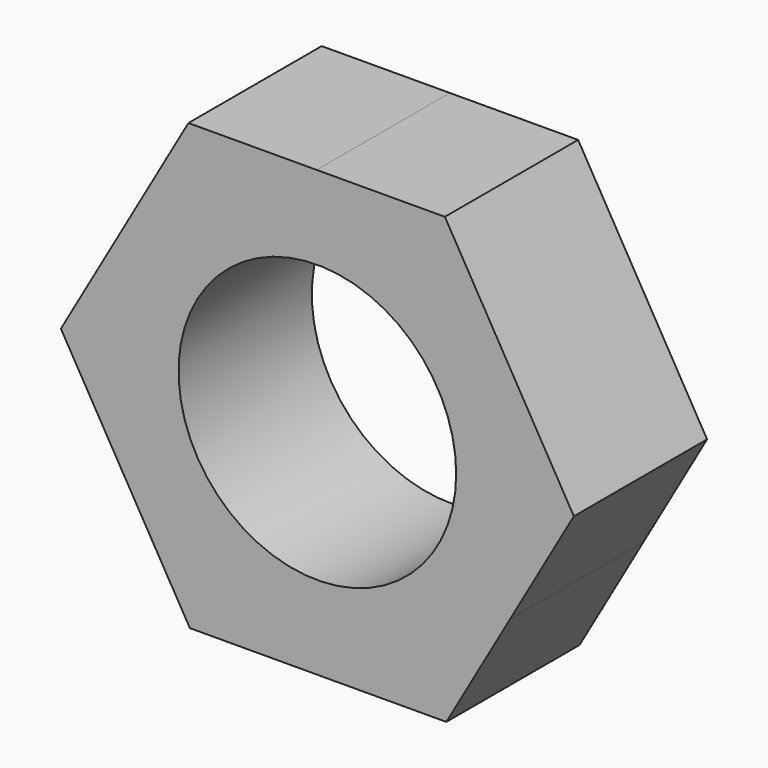
from build123d import *

# Parameters (mm, degrees)
F0_R     = 3.96875
F1_DEPTH = 4.7625


with BuildPart() as f1:
    # F0 (on Front) → F1 (new body)
    with BuildSketch(Plane.XZ):
        with BuildLine():
            ThreePointArc((5.5096007047, -3.1570239268), (6.1363044447, -1.6334833218), (6.35, 0))
            ThreePointArc((6.35, 0), (6.1309371935, 1.6535141757), (5.4888632664, 3.1929422235))
            ThreePointArc((5.4888632664, 3.1929422235), (3.1570238869, 5.5096007276), (-0.0207375096, 6.3499661382))
            ThreePointArc((-0.0207375096, 6.3499661382), (-3.1929422935, 5.4888632257), (-5.5096007601, 3.1570238302))
            ThreePointArc((-5.5096007601, 3.1570238302), (-6.3499661379, -0.0207375771), (-5.4888631828, -3.1929423673))
            ThreePointArc((-5.4888631828, -3.1929423673), (-3.1570238246, -5.5096007633), (0.020737487, -6.3499661382))
            ThreePointArc((0.020737487, -6.3499661382), (3.1929422356, -5.4888632594), (5.5096007047, -3.1570239268))
        make_face()
        Circle(F0_R, mode=Mode.SUBTRACT)
        with BuildLine():
            ThreePointArc((-5.5096007601, 3.1570238302), (-3.1929422935, 5.4888632257), (-0.0207375096, 6.3499661382))
            Line((-0.0207375096, 6.3499661382), (-3.6868921494, 6.3379933427))
            Line((-3.6868921494, 6.3379933427), (-5.5096007601, 3.1570238302))
        make_face()
        with BuildLine():
            ThreePointArc((-5.4888631828, -3.1929423673), (-6.3499661379, -0.0207375771), (-5.5096007601, 3.1570238302))
            Line((-5.5096007601, 3.1570238302), (-7.3323093185, -0.023945591))
            Line((-7.3323093185, -0.023945591), (-5.4888631828, -3.1929423673))
        make_face()
        with BuildLine():
            Line((-3.6454171691, -6.3619389337), (0.020737487, -6.3499661382))
            ThreePointArc((0.020737487, -6.3499661382), (-3.1570238246, -5.5096007633), (-5.4888631828, -3.1929423673))
            Line((-5.4888631828, -3.1929423673), (-3.6454171691, -6.3619389337))
        make_face()
        with BuildLine():
            Line((3.6868921494, -6.3379933427), (5.5096007047, -3.1570239268))
            ThreePointArc((5.5096007047, -3.1570239268), (3.1929422356, -5.4888632594), (0.020737487, -6.3499661382))
            Line((0.020737487, -6.3499661382), (3.6868921494, -6.3379933427))
        make_face()
        with BuildLine():
            ThreePointArc((5.4888632664, 3.1929422235), (6.1309371935, 1.6535141757), (6.35, 0))
            ThreePointArc((6.35, 0), (6.1363044447, -1.6334833218), (5.5096007047, -3.1570239268))
            Line((5.5096007047, -3.1570239268), (7.3323093185, 0.023945591))
            Line((7.3323093185, 0.023945591), (5.4888632664, 3.1929422235))
        make_face()
        with BuildLine():
            ThreePointArc((-0.0207375096, 6.3499661382), (3.1570238869, 5.5096007276), (5.4888632664, 3.1929422235))
            Line((5.4888632664, 3.1929422235), (3.6454171691, 6.3619389337))
            Line((3.6454171691, 6.3619389337), (-0.0207375096, 6.3499661382))
        make_face()
    extrude(amount=F1_DEPTH)


solid = f1.part
